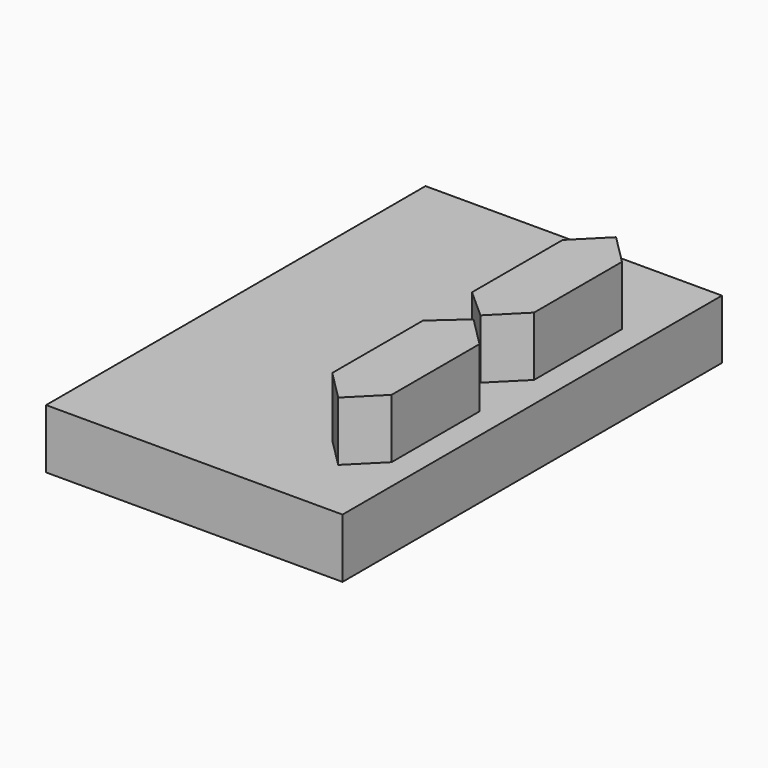
from build123d import *

# Parameters (mm, degrees)
F0_W     = 10
F0_H     = 16
F1_DEPTH = 2
F3_DEPTH = 2


with BuildPart() as f1:
    # F0 (on Top) → F1 (new body)
    with BuildSketch(Plane.XY):
        Rectangle(F0_W, F0_H)
    extrude(amount=F1_DEPTH)

    # F2 (on face) → F3 (join)
    with BuildSketch(Plane.XY.offset(2)):
        Polygon((4.141421, 4.858579), (3.141421, 5.858579), (2.141421, 4.858579), (2.141421, 1.03352), (3.137452, 0.145399), (4.141421, 1.150722), align=None)
        Polygon((3.137452, -0.145399), (2.141421, -1.03352), (2.141421, -4.858579), (3.141421, -5.858579), (4.141421, -4.858579), (4.141421, -1.150722), align=None)
    extrude(amount=F3_DEPTH)


solid = f1.part
